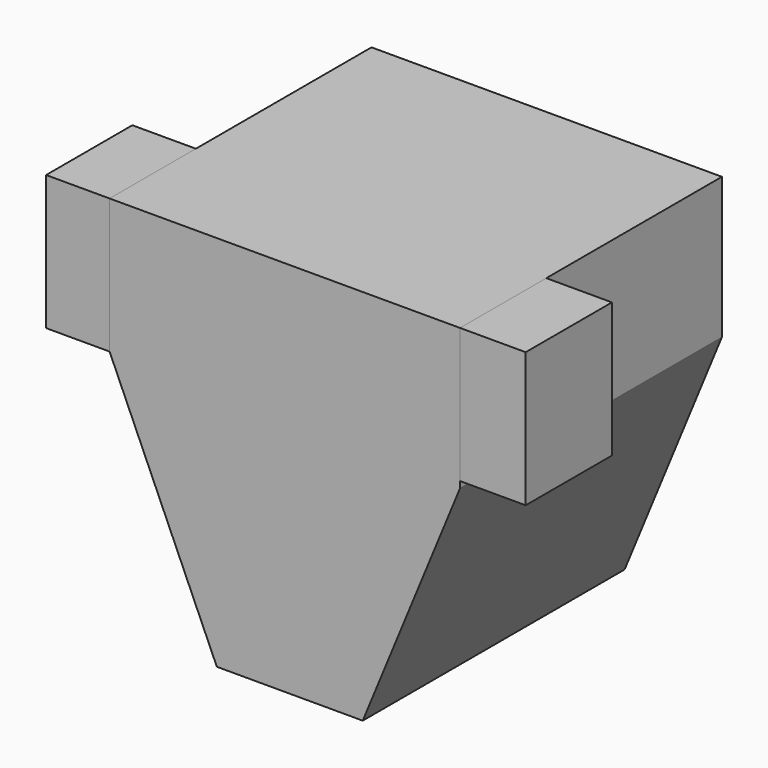
from build123d import *

# Parameters (mm, degrees)
F1_DEPTH = 607.1892
F2_W     = 117.834198
F2_H     = 250
F2_W_2   = 121.764678
F3_DEPTH = 200


with BuildPart() as f1:
    # F0 (on Front) → F1 (new body)
    with BuildSketch(Plane.XZ):
        Polygon((325, 88.254139), (325, 350), (-325, 350), (-325, 100), (-126.152575, -350), (144.531921, -350), align=None)
    extrude(amount=F1_DEPTH)


with BuildPart() as f3:
    # F2 (on face) → F3 (new body)
    with BuildSketch(Plane.XZ.offset(607.1892)):
        with Locations((-383.917099, 225)):
            Rectangle(F2_W, F2_H)
        with Locations((385.882339, 225)):
            Rectangle(F2_W_2, F2_H)
    extrude(amount=-F3_DEPTH)


solid = Compound([f1.part, f3.part])
